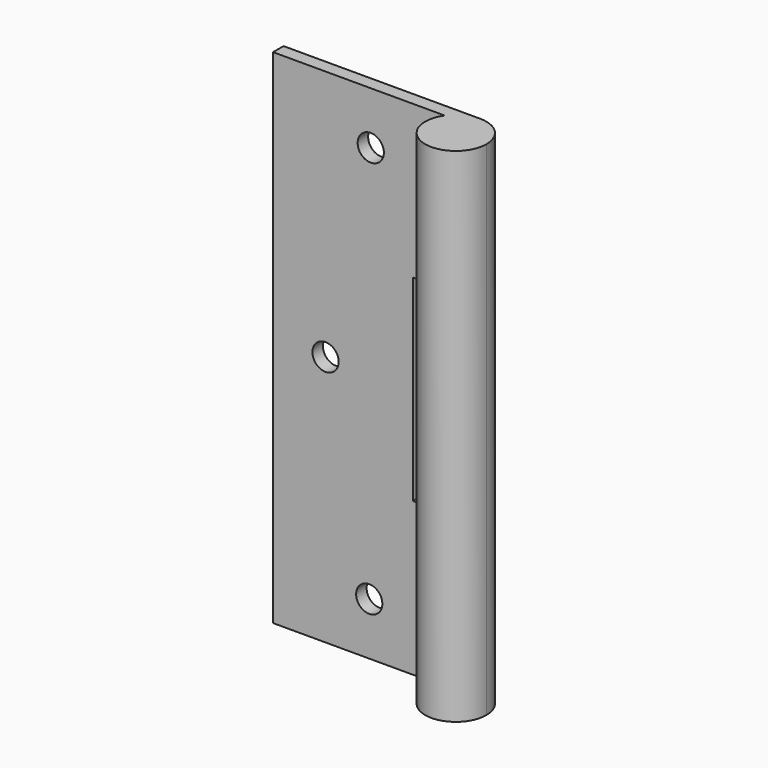
from build123d import *

# Parameters (mm, degrees)
F0_R     = 3
F1_DEPTH = 3
F3_DEPTH = 115


with BuildPart() as f1:
    # F0 (on Front) → F1 (new body)
    with BuildSketch(Plane.XZ):
        Polygon((0, 115), (0, 0), (45, 0), (45, 35), (32, 35), (32, 80), (45, 80), (45, 115), align=None)
        with Locations((22, 12)):
            Circle(F0_R, mode=Mode.SUBTRACT)
        with Locations((12, 57.5)):
            Circle(F0_R, mode=Mode.SUBTRACT)
        with Locations((22.349515, 103.005091)):
            Circle(F0_R, mode=Mode.SUBTRACT)
    extrude(amount=F1_DEPTH)

    # F2 (on Top) → F3 (join)
    with BuildSketch(Plane.XY):
        with BuildLine():
            ThreePointArc((45.008171, 0), (40.058424, -11.949747), (52.008171, -7))
            ThreePointArc((52.008171, -7), (49.957919, -2.050253), (45.008171, 0))
        make_face()
    extrude(amount=F3_DEPTH)


solid = f1.part
